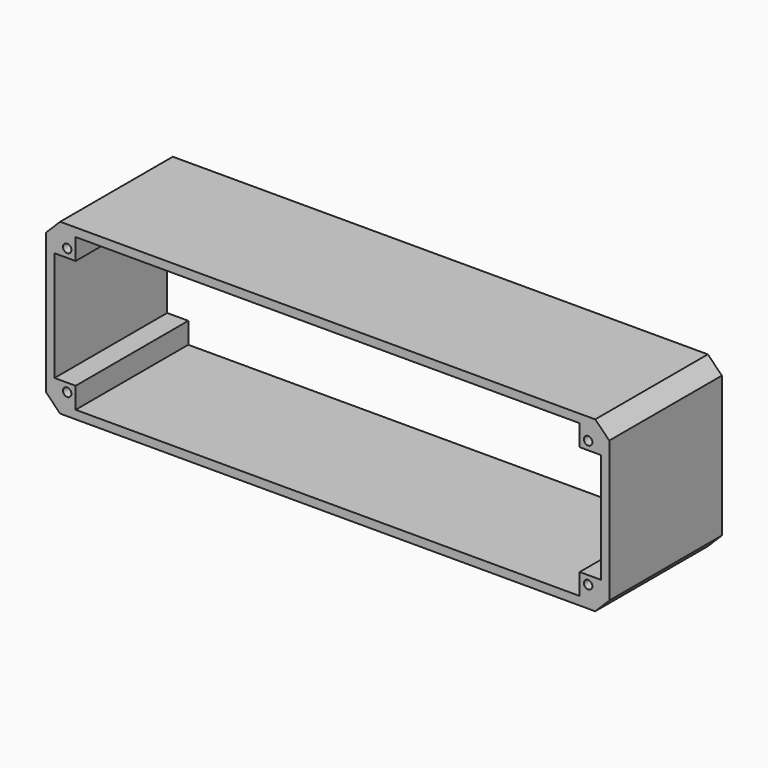
from build123d import *

# Parameters (mm, degrees)
SKETCH_W     = 200
SKETCH_H     = 60
PAD_DEPTH    = 50
CHAMFER_SIZE = 5
SKETCH001_R  = 1.5
POCKET_DEPTH = 50.001


with BuildPart() as part:
    # Sketch → Pad (new body)
    with BuildSketch(Plane.XZ):
        with Locations((100, 30)):
            Rectangle(SKETCH_W, SKETCH_H)
    extrude(amount=PAD_DEPTH)

    # Chamfer
    chamfer_edges = [part.edges().sort_by_distance(p)[0] for p in [
        (200, -25, 0),
        (200, -25, 60),
        (0, -25, 60),
        (0, -25, 0),
    ]]
    chamfer(chamfer_edges, length=CHAMFER_SIZE)

    # Sketch001 (on Face5 of Chamfer) → Pocket (cut, through all)
    with BuildSketch(Plane.XZ.offset(50)):
        with Locations((7.5, 52.5)):
            Circle(SKETCH001_R)
        with Locations((192.5, 52.5)):
            Circle(SKETCH001_R)
        with Locations((192.5, 7.5)):
            Circle(SKETCH001_R)
        with Locations((7.5, 7.5)):
            Circle(SKETCH001_R)
        Polygon((10.5, 57), (189.5, 57), (189.5, 49.5), (197, 49.5), (197, 10.5), (189.5, 10.5), (189.5, 3), (10.5, 3), (10.5, 10.5), (3, 10.5), (3, 49.5), (10.5, 49.5), align=None)
    extrude(amount=-POCKET_DEPTH, mode=Mode.SUBTRACT)


solid = part.part
